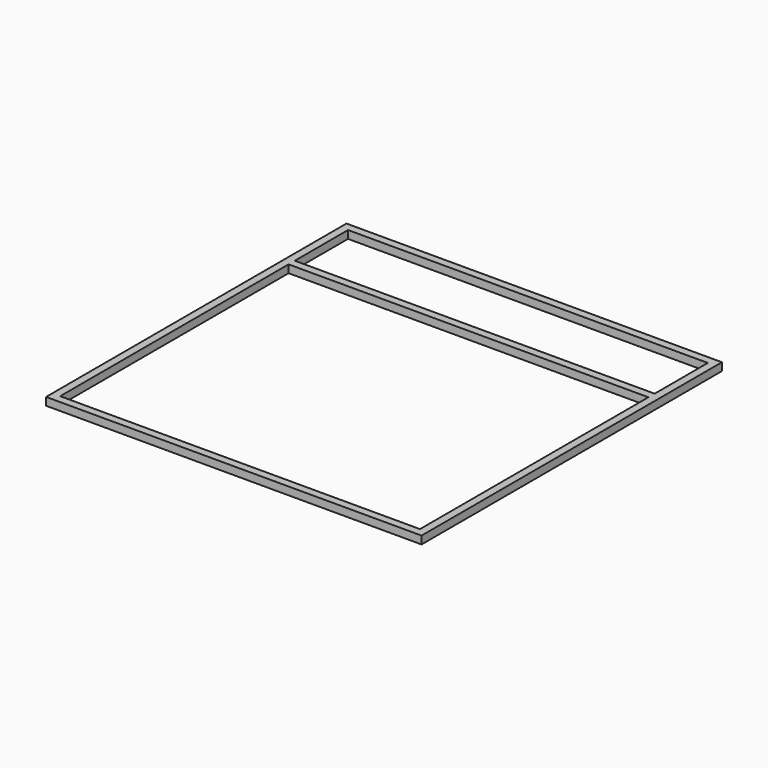
from build123d import *

# Parameters (mm, degrees)
F0_W     = 914.4
F0_H     = 914.4
F0_W_2   = 876.3
F0_H_2   = 876.3
F1_DEPTH = 19.05
F3_DEPTH = 19.05


with BuildPart() as f1:
    # F0 (on Top) → F1 (new body)
    with BuildSketch(Plane.XY):
        Rectangle(F0_W, F0_H)
        Rectangle(F0_W_2, F0_H_2, mode=Mode.SUBTRACT)
    extrude(amount=F1_DEPTH)

    # F2 (on Top) → F3 (join)
    with BuildSketch(Plane.XY):
        Polygon((438.15, 257.175), (438.15, 276.225), (-438.15, 276.225), (-438.15, 257.175), (0, 257.175), align=None)
    extrude(amount=F3_DEPTH)


solid = f1.part
